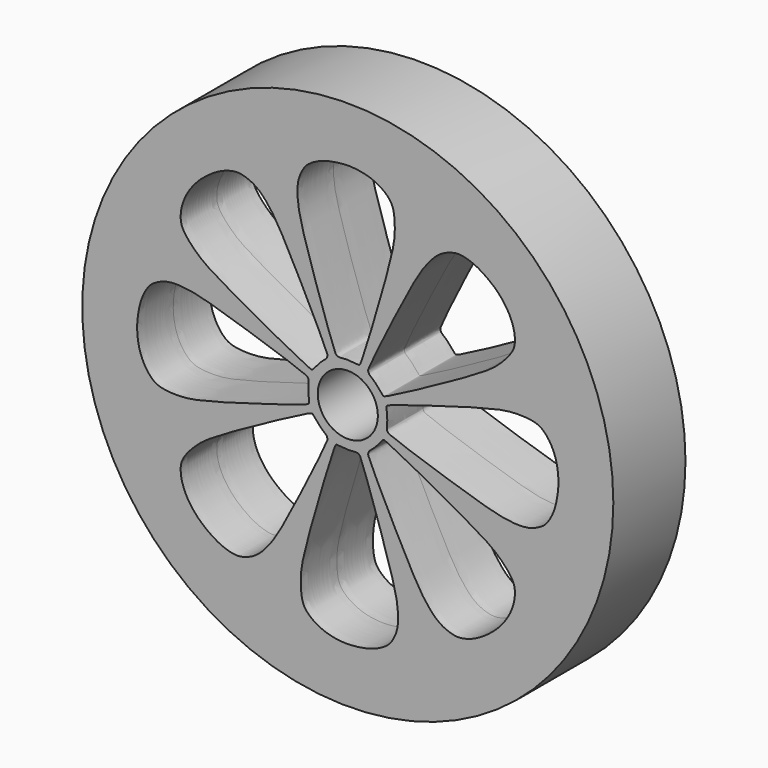
from build123d import *

# Parameters (mm, degrees)
F0_R     = 26.5
F0_R_2   = 3
F1_DEPTH = 4.5


with BuildPart() as f1:
    # F0 (on Front) → F1 (new body, symmetric)
    with BuildSketch(Plane.XZ):
        Circle(F0_R)
        with BuildLine():
            add(Edge.make_bspline(
                [(-2.0934587639, -3.4483161563), (-2.0770267358, -3.4856295044), (-2.0042061538, -3.662746157), (-2.1617166196, -4.2472504057), (-6.6666093027, -13.3276848085), (-7.8416898095, -14.8564509472), (-8.6042605194, -15.7724248858), (-9.4534955289, -16.4298537758), (-10.3360809541, -16.7503582254), (-11.0489432081, -16.8904860016), (-11.9504170665, -16.7096665623), (-12.7871647203, -16.3856510787), (-13.735690248, -15.8253847803), (-14.9007679603, -14.9084599984), (-15.7551482495, -13.8473452819), (-16.2754409774, -12.9527263274), (-16.6296276121, -11.9137353584), (-16.7053696977, -11.0446941799), (-16.6100740143, -10.276247164), (-15.9839066339, -9.3497777102), (-15.0167230638, -8.3552803712), (-13.5645820026, -7.2225347631), (-8.6243829296, -4.4811544856), (-3.9867574945, -1.9982562985), (-3.5509117037, -1.9059555674), (-3.437197505, -2.0253329781), (-3.1628367519, -2.3450261924), (-2.7997534438, -2.7900760457), (-2.5293237062, -3.0294303059), (-2.2969999445, -3.2154678163), (-2.1220998785, -3.387927922), (-2.1036259175, -3.4252288941), (-2.0934587639, -3.4483161563)],
                knots=[0, 0, 0, 0, 0.0132047521, 0.0367190386, 0.1380011002, 0.1859973619, 0.2184440513, 0.2515025506, 0.2821887284, 0.3091984365, 0.3393500048, 0.3695710418, 0.4029937495, 0.4421129365, 0.4793775898, 0.5118939754, 0.5451490945, 0.5747911718, 0.6022617235, 0.6355751344, 0.672459156, 0.7146396005, 0.7934842211, 0.8659400752, 0.8828172471, 0.8942458301, 0.9149849552, 0.9396434145, 0.9588430489, 0.9765347292, 0.9918296913, 1, 1, 1, 1], degree=3))
        make_face(mode=Mode.SUBTRACT)
        with BuildLine():
            add(Edge.make_bspline(
                [(0.9580288497, -3.9186266259), (0.9960325697, -3.9333919488), (1.1727648831, -4.0071404076), (1.4746950826, -4.531824044), (4.7100916601, -14.138100951), (4.9601851688, -16.0500092494), (5.0686576321, -17.2369195529), (4.9330302244, -18.3022918132), (4.535578955, -19.1530048221), (4.1305945218, -19.7561598567), (3.3652975919, -20.2657394833), (2.544514106, -20.6282958778), (1.4776371744, -20.9028366117), (0.0054390923, -21.0783072316), (-1.3490204156, -20.932123916), (-2.349514061, -20.6674353029), (-3.334639392, -20.1832055143), (-4.0027020448, -19.6222583462), (-4.4786919167, -19.0115000263), (-4.6910375492, -17.9136199921), (-4.7103513004, -16.5265021188), (-4.4845046096, -14.6987112264), (-2.9297049287, -9.2670143774), (-1.4060826801, -4.2320438386), (-1.1631596388, -3.8585878514), (-0.9983389811, -3.862592347), (-0.5782793924, -3.8946472377), (-0.0068429538, -3.9526063377), (0.353628768, -3.9306326569), (0.6494548604, -3.8979033347), (0.8950755934, -3.8961780222), (0.9345144267, -3.9094907295), (0.9580288497, -3.9186266259)],
                knots=[0, 0, 0, 0, 0.0132047521, 0.0367190386, 0.1380011002, 0.1859973619, 0.2184440513, 0.2515025506, 0.2821887284, 0.3091984365, 0.3393500048, 0.3695710418, 0.4029937495, 0.4421129365, 0.4793775898, 0.5118939754, 0.5451490945, 0.5747911718, 0.6022617235, 0.6355751344, 0.672459156, 0.7146396005, 0.7934842211, 0.8659400752, 0.8828172471, 0.8942458301, 0.9149849552, 0.9396434145, 0.9588430489, 0.9765347292, 0.9918296913, 1, 1, 1, 1], degree=3))
        make_face(mode=Mode.SUBTRACT)
        with BuildLine():
            add(Edge.make_bspline(
                [(2.0934587639, -3.4483161563), (2.0770267358, -3.4856295044), (2.0042061538, -3.662746157), (2.1617166196, -4.2472504057), (6.6666093027, -13.3276848085), (7.8416898095, -14.8564509472), (8.6042605194, -15.7724248858), (9.4534955289, -16.4298537758), (10.3360809541, -16.7503582254), (11.0489432081, -16.8904860016), (11.9504170665, -16.7096665623), (12.7871647203, -16.3856510787), (13.735690248, -15.8253847803), (14.9007679603, -14.9084599984), (15.7551482495, -13.8473452819), (16.2754409774, -12.9527263274), (16.6296276121, -11.9137353584), (16.7053696977, -11.0446941799), (16.6100740143, -10.276247164), (15.9839066339, -9.3497777102), (15.0167230638, -8.3552803712), (13.5645820026, -7.2225347631), (8.6243829296, -4.4811544856), (3.9867574945, -1.9982562985), (3.5509117037, -1.9059555674), (3.437197505, -2.0253329781), (3.1628367519, -2.3450261924), (2.7997534438, -2.7900760457), (2.5293237062, -3.0294303059), (2.2969999445, -3.2154678163), (2.1220998785, -3.387927922), (2.1036259175, -3.4252288941), (2.0934587639, -3.4483161563)],
                knots=[0, 0, 0, 0, 0.0132047521, 0.0367190386, 0.1380011002, 0.1859973619, 0.2184440513, 0.2515025506, 0.2821887284, 0.3091984365, 0.3393500048, 0.3695710418, 0.4029937495, 0.4421129365, 0.4793775898, 0.5118939754, 0.5451490945, 0.5747911718, 0.6022617235, 0.6355751344, 0.672459156, 0.7146396005, 0.7934842211, 0.8659400752, 0.8828172471, 0.8942458301, 0.9149849552, 0.9396434145, 0.9588430489, 0.9765347292, 0.9918296913, 1, 1, 1, 1], degree=3))
        make_face(mode=Mode.SUBTRACT)
        with BuildLine():
            add(Edge.make_bspline(
                [(3.9186266259, -0.9580288497), (3.9333919488, -0.9960325697), (4.0071404076, -1.1727648831), (4.531824044, -1.4746950826), (14.138100951, -4.7100916601), (16.0500092494, -4.9601851688), (17.2369195529, -5.0686576321), (18.3022918132, -4.9330302244), (19.1530048221, -4.535578955), (19.7561598567, -4.1305945218), (20.2657394833, -3.3652975919), (20.6282958778, -2.544514106), (20.9028366117, -1.4776371744), (21.0783072316, -0.0054390923), (20.932123916, 1.3490204156), (20.6674353029, 2.349514061), (20.1832055143, 3.334639392), (19.6222583462, 4.0027020448), (19.0115000263, 4.4786919167), (17.9136199921, 4.6910375492), (16.5265021188, 4.7103513004), (14.6987112264, 4.4845046096), (9.2670143774, 2.9297049287), (4.2320438386, 1.4060826801), (3.8585878514, 1.1631596388), (3.862592347, 0.9983389811), (3.8946472377, 0.5782793924), (3.9526063377, 0.0068429538), (3.9306326569, -0.353628768), (3.8979033347, -0.6494548604), (3.8961780222, -0.8950755934), (3.9094907295, -0.9345144267), (3.9186266259, -0.9580288497)],
                knots=[0, 0, 0, 0, 0.0132047521, 0.0367190386, 0.1380011002, 0.1859973619, 0.2184440513, 0.2515025506, 0.2821887284, 0.3091984365, 0.3393500048, 0.3695710418, 0.4029937495, 0.4421129365, 0.4793775898, 0.5118939754, 0.5451490945, 0.5747911718, 0.6022617235, 0.6355751344, 0.672459156, 0.7146396005, 0.7934842211, 0.8659400752, 0.8828172471, 0.8942458301, 0.9149849552, 0.9396434145, 0.9588430489, 0.9765347292, 0.9918296913, 1, 1, 1, 1], degree=3))
        make_face(mode=Mode.SUBTRACT)
        with BuildLine():
            add(Edge.make_bspline(
                [(-3.9186266259, 0.9580288497), (-3.9333919488, 0.9960325697), (-4.0071404076, 1.1727648831), (-4.531824044, 1.4746950826), (-14.138100951, 4.7100916601), (-16.0500092494, 4.9601851688), (-17.2369195529, 5.0686576321), (-18.3022918132, 4.9330302244), (-19.1530048221, 4.535578955), (-19.7561598567, 4.1305945218), (-20.2657394833, 3.3652975919), (-20.6282958778, 2.544514106), (-20.9028366117, 1.4776371744), (-21.0783072316, 0.0054390923), (-20.932123916, -1.3490204156), (-20.6674353029, -2.349514061), (-20.1832055143, -3.334639392), (-19.6222583462, -4.0027020448), (-19.0115000263, -4.4786919167), (-17.9136199921, -4.6910375492), (-16.5265021188, -4.7103513004), (-14.6987112264, -4.4845046096), (-9.2670143774, -2.9297049287), (-4.2320438386, -1.4060826801), (-3.8585878514, -1.1631596388), (-3.862592347, -0.9983389811), (-3.8946472377, -0.5782793924), (-3.9526063377, -0.0068429538), (-3.9306326569, 0.353628768), (-3.8979033347, 0.6494548604), (-3.8961780222, 0.8950755934), (-3.9094907295, 0.9345144267), (-3.9186266259, 0.9580288497)],
                knots=[0, 0, 0, 0, 0.0132047521, 0.0367190386, 0.1380011002, 0.1859973619, 0.2184440513, 0.2515025506, 0.2821887284, 0.3091984365, 0.3393500048, 0.3695710418, 0.4029937495, 0.4421129365, 0.4793775898, 0.5118939754, 0.5451490945, 0.5747911718, 0.6022617235, 0.6355751344, 0.672459156, 0.7146396005, 0.7934842211, 0.8659400752, 0.8828172471, 0.8942458301, 0.9149849552, 0.9396434145, 0.9588430489, 0.9765347292, 0.9918296913, 1, 1, 1, 1], degree=3))
        make_face(mode=Mode.SUBTRACT)
        with BuildLine():
            add(Edge.make_bspline(
                [(-2.0934587639, 3.4483161563), (-2.0770267358, 3.4856295044), (-2.0042061538, 3.662746157), (-2.1617166196, 4.2472504057), (-6.6666093027, 13.3276848085), (-7.8416898095, 14.8564509472), (-8.6042605194, 15.7724248858), (-9.4534955289, 16.4298537758), (-10.3360809541, 16.7503582254), (-11.0489432081, 16.8904860016), (-11.9504170665, 16.7096665623), (-12.7871647203, 16.3856510787), (-13.735690248, 15.8253847803), (-14.9007679603, 14.9084599984), (-15.7551482495, 13.8473452819), (-16.2754409774, 12.9527263274), (-16.6296276121, 11.9137353584), (-16.7053696977, 11.0446941799), (-16.6100740143, 10.276247164), (-15.9839066339, 9.3497777102), (-15.0167230638, 8.3552803712), (-13.5645820026, 7.2225347631), (-8.6243829296, 4.4811544856), (-3.9867574945, 1.9982562985), (-3.5509117037, 1.9059555674), (-3.437197505, 2.0253329781), (-3.1628367519, 2.3450261924), (-2.7997534438, 2.7900760457), (-2.5293237062, 3.0294303059), (-2.2969999445, 3.2154678163), (-2.1220998785, 3.387927922), (-2.1036259175, 3.4252288941), (-2.0934587639, 3.4483161563)],
                knots=[0, 0, 0, 0, 0.0132047521, 0.0367190386, 0.1380011002, 0.1859973619, 0.2184440513, 0.2515025506, 0.2821887284, 0.3091984365, 0.3393500048, 0.3695710418, 0.4029937495, 0.4421129365, 0.4793775898, 0.5118939754, 0.5451490945, 0.5747911718, 0.6022617235, 0.6355751344, 0.672459156, 0.7146396005, 0.7934842211, 0.8659400752, 0.8828172471, 0.8942458301, 0.9149849552, 0.9396434145, 0.9588430489, 0.9765347292, 0.9918296913, 1, 1, 1, 1], degree=3))
        make_face(mode=Mode.SUBTRACT)
        with BuildLine():
            add(Edge.make_bspline(
                [(-0.9580288497, 3.9186266259), (-0.9960325697, 3.9333919488), (-1.1727648831, 4.0071404076), (-1.4746950826, 4.531824044), (-4.7100916601, 14.138100951), (-4.9601851688, 16.0500092494), (-5.0686576321, 17.2369195529), (-4.9330302244, 18.3022918132), (-4.535578955, 19.1530048221), (-4.1305945218, 19.7561598567), (-3.3652975919, 20.2657394833), (-2.544514106, 20.6282958778), (-1.4776371744, 20.9028366117), (-0.0054390923, 21.0783072316), (1.3490204156, 20.932123916), (2.349514061, 20.6674353029), (3.334639392, 20.1832055143), (4.0027020448, 19.6222583462), (4.4786919167, 19.0115000263), (4.6910375492, 17.9136199921), (4.7103513004, 16.5265021188), (4.4845046096, 14.6987112264), (2.9297049287, 9.2670143774), (1.4060826801, 4.2320438386), (1.1631596388, 3.8585878514), (0.9983389811, 3.862592347), (0.5782793924, 3.8946472377), (0.0068429538, 3.9526063377), (-0.353628768, 3.9306326569), (-0.6494548604, 3.8979033347), (-0.8950755934, 3.8961780222), (-0.9345144267, 3.9094907295), (-0.9580288497, 3.9186266259)],
                knots=[0, 0, 0, 0, 0.0132047521, 0.0367190386, 0.1380011002, 0.1859973619, 0.2184440513, 0.2515025506, 0.2821887284, 0.3091984365, 0.3393500048, 0.3695710418, 0.4029937495, 0.4421129365, 0.4793775898, 0.5118939754, 0.5451490945, 0.5747911718, 0.6022617235, 0.6355751344, 0.672459156, 0.7146396005, 0.7934842211, 0.8659400752, 0.8828172471, 0.8942458301, 0.9149849552, 0.9396434145, 0.9588430489, 0.9765347292, 0.9918296913, 1, 1, 1, 1], degree=3))
        make_face(mode=Mode.SUBTRACT)
        Circle(F0_R_2, mode=Mode.SUBTRACT)
        with BuildLine():
            add(Edge.make_bspline(
                [(2.0934587639, 3.4483161563), (2.0770267358, 3.4856295044), (2.0042061538, 3.662746157), (2.1617166196, 4.2472504057), (6.6666093027, 13.3276848085), (7.8416898095, 14.8564509472), (8.6042605194, 15.7724248858), (9.4534955289, 16.4298537758), (10.3360809541, 16.7503582254), (11.0489432081, 16.8904860016), (11.9504170665, 16.7096665623), (12.7871647203, 16.3856510787), (13.735690248, 15.8253847803), (14.9007679603, 14.9084599984), (15.7551482495, 13.8473452819), (16.2754409774, 12.9527263274), (16.6296276121, 11.9137353584), (16.7053696977, 11.0446941799), (16.6100740143, 10.276247164), (15.9839066339, 9.3497777102), (15.0167230638, 8.3552803712), (13.5645820026, 7.2225347631), (8.6243829296, 4.4811544856), (3.9867574945, 1.9982562985), (3.5509117037, 1.9059555674), (3.437197505, 2.0253329781), (3.1628367519, 2.3450261924), (2.7997534438, 2.7900760457), (2.5293237062, 3.0294303059), (2.2969999445, 3.2154678163), (2.1220998785, 3.387927922), (2.1036259175, 3.4252288941), (2.0934587639, 3.4483161563)],
                knots=[0, 0, 0, 0, 0.0132047521, 0.0367190386, 0.1380011002, 0.1859973619, 0.2184440513, 0.2515025506, 0.2821887284, 0.3091984365, 0.3393500048, 0.3695710418, 0.4029937495, 0.4421129365, 0.4793775898, 0.5118939754, 0.5451490945, 0.5747911718, 0.6022617235, 0.6355751344, 0.672459156, 0.7146396005, 0.7934842211, 0.8659400752, 0.8828172471, 0.8942458301, 0.9149849552, 0.9396434145, 0.9588430489, 0.9765347292, 0.9918296913, 1, 1, 1, 1], degree=3))
        make_face(mode=Mode.SUBTRACT)
    extrude(amount=F1_DEPTH, both=True)


solid = f1.part
